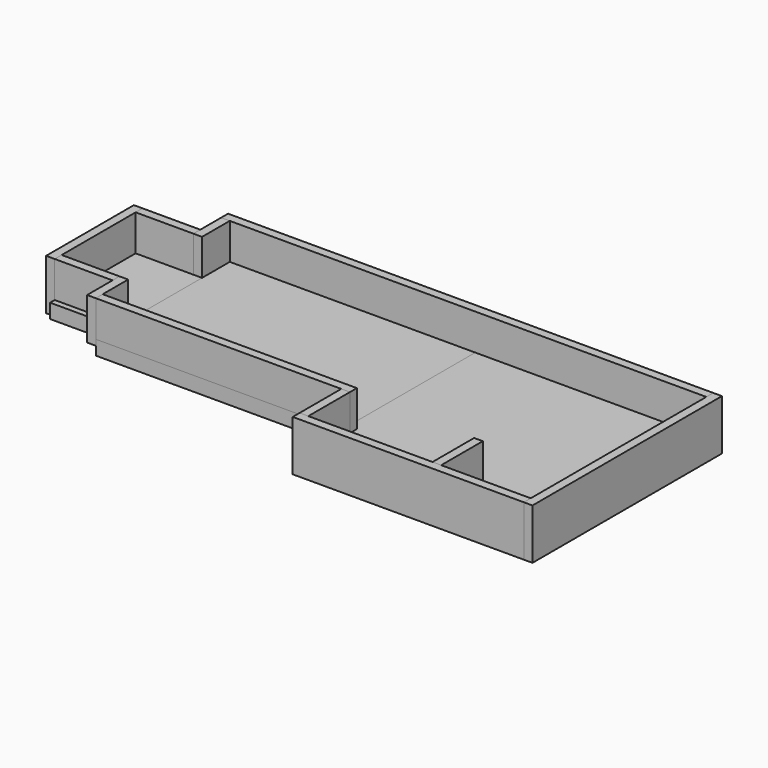
from build123d import *

# Parameters (mm, degrees)
BOX_W        = 85
BOX_H        = 58
BOX_DEPTH    = 5
BOX001_W     = 3
BOX001_H     = 18
BOX001_DEPTH = 12.5
BOX004_W     = 80
BOX004_H     = 3
BOX004_DEPTH = 17.5
BOX005_W     = 168
BOX005_H     = 3
BOX005_DEPTH = 17.5
BOX006_W     = 3
BOX006_H     = 14
BOX006_DEPTH = 14.5
BOX007_W     = 3
BOX007_H     = 12
BOX007_DEPTH = 14.5
BOX008_W     = 3
BOX008_H     = 82
BOX008_DEPTH = 17.5
BOX009_W     = 88
BOX009_H     = 3
BOX009_DEPTH = 12.5
BOX010_W     = 3
BOX010_H     = 18
BOX010_DEPTH = 12.5
BOX011_W     = 23
BOX011_H     = 38
BOX011_DEPTH = 5
BOX012_W     = 20
BOX012_H     = 3
BOX012_DEPTH = 14.5
BOX013_W     = 20
BOX013_H     = 3
BOX013_DEPTH = 14.5
BOX014_W     = 3
BOX014_H     = 38
BOX014_DEPTH = 17.5
BOX015_W     = 80
BOX015_H     = 76
BOX015_DEPTH = 5


with BuildPart() as base:
    # Box → Box (new body)
    with BuildSketch(Plane(origin=(0, 18, 0), x_dir=(1, 0, 0), z_dir=(0, 0, 1))):
        with Locations((42.5, 29)):
            Rectangle(BOX_W, BOX_H)
    extrude(amount=BOX_DEPTH)


with BuildPart() as platform_support:
    # Box001 → Box001 (new body)
    with BuildSketch(Plane(origin=(85, 0, 5), x_dir=(1, 0, 0), z_dir=(0, 0, 1))):
        with Locations((1.5, 9)):
            Rectangle(BOX001_W, BOX001_H)
    extrude(amount=BOX001_DEPTH)


with BuildPart() as box004:
    # Box004 → Box004 (new body)
    with BuildSketch(Plane(origin=(85, -3, 0), x_dir=(1, 0, 0), z_dir=(0, 0, 1))):
        with Locations((40, 1.5)):
            Rectangle(BOX004_W, BOX004_H)
    extrude(amount=BOX004_DEPTH)


with BuildPart() as box005:
    # Box005 → Box005 (new body)
    with BuildSketch(Plane(origin=(-3, 76, 0), x_dir=(1, 0, 0), z_dir=(0, 0, 1))):
        with Locations((84, 1.5)):
            Rectangle(BOX005_W, BOX005_H)
    extrude(amount=BOX005_DEPTH)


with BuildPart() as box006:
    # Box006 → Box006 (new body)
    with BuildSketch(Plane(origin=(-3, 18, 3), x_dir=(1, 0, 0), z_dir=(0, 0, 1))):
        with Locations((1.5, 7)):
            Rectangle(BOX006_W, BOX006_H)
    extrude(amount=BOX006_DEPTH)


with BuildPart() as box007:
    # Box007 → Box007 (new body)
    with BuildSketch(Plane(origin=(-3, 64, 3), x_dir=(1, 0, 0), z_dir=(0, 0, 1))):
        with Locations((1.5, 6)):
            Rectangle(BOX007_W, BOX007_H)
    extrude(amount=BOX007_DEPTH)


with BuildPart() as box008:
    # Box008 → Box008 (new body)
    with BuildSketch(Plane(origin=(165, -3, 0), x_dir=(1, 0, 0), z_dir=(0, 0, 1))):
        with Locations((1.5, 41)):
            Rectangle(BOX008_W, BOX008_H)
    extrude(amount=BOX008_DEPTH)


with BuildPart() as platform_support001:
    # Box009 → Box009 (new body)
    with BuildSketch(Plane(origin=(0, 18, 5), x_dir=(1, 0, 0), z_dir=(0, 0, 1))):
        with Locations((44, 1.5)):
            Rectangle(BOX009_W, BOX009_H)
    extrude(amount=BOX009_DEPTH)


with BuildPart() as platform_support002:
    # Box010 → Box010 (new body)
    with BuildSketch(Plane(origin=(131, 0, 5), x_dir=(1, 0, 0), z_dir=(0, 0, 1))):
        with Locations((1.5, 9)):
            Rectangle(BOX010_W, BOX010_H)
    extrude(amount=BOX010_DEPTH)


with BuildPart() as box011:
    # Box011 → Box011 (new body)
    with BuildSketch(Plane(origin=(-23, 27, 0), x_dir=(1, 0, 0), z_dir=(0, 0, 1))):
        with Locations((11.5, 19)):
            Rectangle(BOX011_W, BOX011_H)
    extrude(amount=BOX011_DEPTH)


with BuildPart() as box012:
    # Box012 → Box012 (new body)
    with BuildSketch(Plane(origin=(-23, 64, 3), x_dir=(1, 0, 0), z_dir=(0, 0, 1))):
        with Locations((10, 1.5)):
            Rectangle(BOX012_W, BOX012_H)
    extrude(amount=BOX012_DEPTH)


with BuildPart() as box013:
    # Box013 → Box013 (new body)
    with BuildSketch(Plane(origin=(-23, 29, 3), x_dir=(1, 0, 0), z_dir=(0, 0, 1))):
        with Locations((10, 1.5)):
            Rectangle(BOX013_W, BOX013_H)
    extrude(amount=BOX013_DEPTH)


with BuildPart() as box014:
    # Box014 → Box014 (new body)
    with BuildSketch(Plane(origin=(-26, 29, 0), x_dir=(1, 0, 0), z_dir=(0, 0, 1))):
        with Locations((1.5, 19)):
            Rectangle(BOX014_W, BOX014_H)
    extrude(amount=BOX014_DEPTH)


with BuildPart() as base001:
    # Box015 → Box015 (new body)
    with BuildSketch(Plane(origin=(85, 0, 0), x_dir=(1, 0, 0), z_dir=(0, 0, 1))):
        with Locations((40, 38)):
            Rectangle(BOX015_W, BOX015_H)
    extrude(amount=BOX015_DEPTH)


solid = Compound([base.part, platform_support.part, box004.part, box005.part, box006.part, box007.part, box008.part, platform_support001.part, platform_support002.part, box011.part, box012.part, box013.part, box014.part, base001.part])
